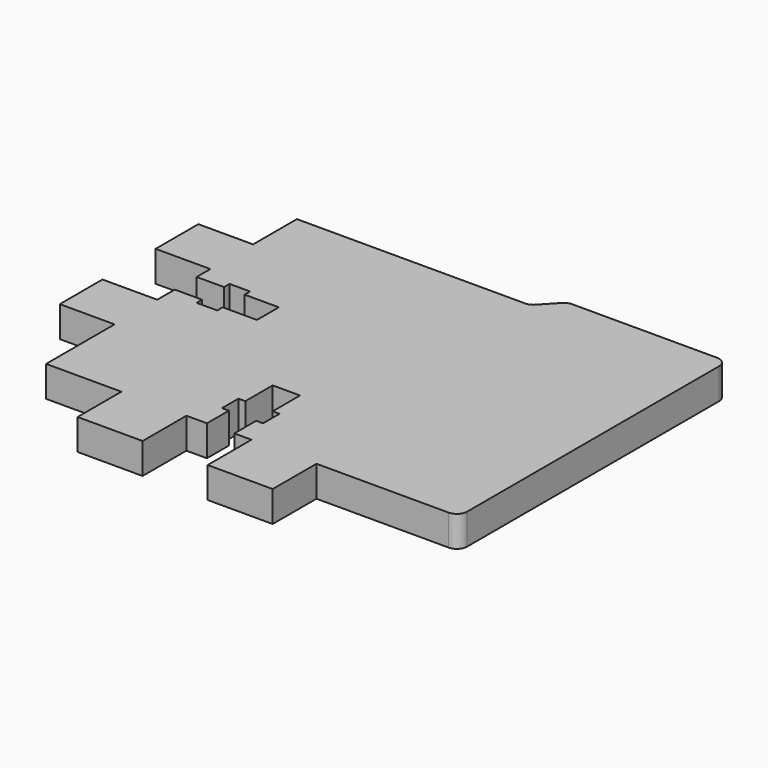
from build123d import *

# Parameters (mm, degrees)
F1_DEPTH = 4.5


with BuildPart() as f1:
    # F0 (on Top) → F1 (new body)
    with BuildSketch(Plane.XY):
        with BuildLine():
            Line((13.791552, 28.438764), (-19.5586, 28.438764))
            Line((-19.5586, 28.438764), (-19.5586, 20.438764))
            Line((-19.5586, 20.438764), (-27.5586, 20.438764))
            Line((-27.5586, 20.438764), (-27.5586, 12.638764))
            Line((-27.5586, 12.638764), (-19.5586, 12.638764))
            Line((-19.5586, 12.638764), (-19.5586, 10.138764))
            Line((-19.5586, 10.138764), (-15.5586, 10.138764))
            Line((-15.5586, 10.138764), (-15.5586, 11.138764))
            Line((-15.5586, 11.138764), (-12.5586, 11.138764))
            Line((-12.5586, 11.138764), (-12.5586, 10.138764))
            Line((-12.5586, 10.138764), (-7.5586, 10.138764))
            Line((-7.5586, 10.138764), (-7.5586, 6.138764))
            Line((-7.5586, 6.138764), (-12.5586, 6.138764))
            Line((-12.5586, 6.138764), (-12.5586, 5.138764))
            Line((-12.5586, 5.138764), (-15.5586, 5.138764))
            Line((-15.5586, 5.138764), (-15.5586, 6.138764))
            Line((-15.5586, 6.138764), (-19.5586, 6.138764))
            Line((-19.5586, 6.138764), (-19.5586, 2.938764))
            Line((-19.5586, 2.938764), (-27.5586, 2.938764))
            Line((-27.5586, 2.938764), (-27.5586, -4.861236))
            Line((-27.5586, -4.861236), (-19.5586, -4.861236))
            Line((-19.5586, -4.861236), (-19.5586, -12.361236))
            Line((-19.5586, -12.361236), (-19.5586, -17.361236))
            Line((-19.5586, -17.361236), (-11.749149, -17.361236))
            Line((-11.749149, -17.361236), (-8.5586, -17.361236))
            Line((-8.5586, -17.361236), (-8.5586, -25.361236))
            Line((-8.5586, -25.361236), (0.9414, -25.361236))
            Line((0.9414, -25.361236), (0.9414, -17.361236))
            Line((0.9414, -17.361236), (3.9414, -17.361236))
            Line((3.9414, -17.361236), (3.9414, -13.361236))
            Line((3.9414, -13.361236), (2.9414, -13.361236))
            Line((2.9414, -13.361236), (2.9414, -10.361236))
            Line((2.9414, -10.361236), (3.9414, -10.361236))
            Line((3.9414, -10.361236), (3.9414, -5.361236))
            Line((3.9414, -5.361236), (7.9414, -5.361236))
            Line((7.9414, -5.361236), (7.9414, -10.361236))
            Line((7.9414, -10.361236), (8.9414, -10.361236))
            Line((8.9414, -10.361236), (8.9414, -13.361236))
            Line((8.9414, -13.361236), (7.9414, -13.361236))
            Line((7.9414, -13.361236), (7.9414, -17.361236))
            Line((7.9414, -17.361236), (10.4414, -17.361236))
            Line((10.4414, -17.361236), (10.4414, -25.361236))
            Line((10.4414, -25.361236), (19.9414, -25.361236))
            Line((19.9414, -25.361236), (19.9414, -17.361236))
            Line((19.9414, -17.361236), (39.250851, -17.361236))
            ThreePointArc((39.250851, -17.361236), (40.311511, -16.921896), (40.750851, -15.861236))
            Line((40.750851, -15.861236), (40.750851, 30.138764))
            ThreePointArc((40.750851, 30.138764), (40.311511, 31.199425), (39.250851, 31.638764))
            Line((39.250851, 31.638764), (18.091248, 31.638764))
            ThreePointArc((18.091248, 31.638764), (17.494954, 31.515149), (16.996942, 31.164676))
            Line((16.996942, 31.164676), (14.885857, 28.912853))
            ThreePointArc((14.885857, 28.912853), (14.387845, 28.56238), (13.791552, 28.438764))
        make_face()
    extrude(amount=F1_DEPTH)


solid = f1.part
